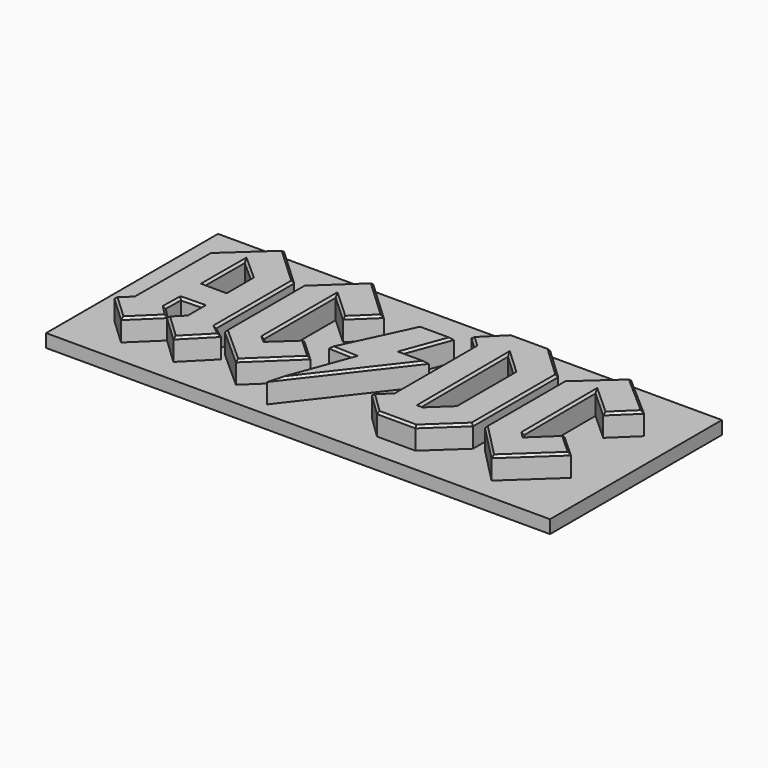
from build123d import *

# Parameters (mm, degrees)
F1_DEPTH  = 5
F2_SIZE   = 0.5
F3_SIZE   = 0.5
F4_SIZE   = 0.5
F4_2_SIZE = 0.5
F4_3_SIZE = 0.5
F5_W      = 115.1058450341
F5_H      = 49.0769091994
F6_DEPTH  = 3


with BuildPart() as f1:
    # F0 (on Top) → F1 (new body)
    with BuildSketch(Plane.XY):
        Polygon((-37.42608428, 22.5619599223), (-47.2409762442, 13.5421995074), (-47.3403669894, -8.0754114315), (-49.8249195516, -10.4061011225), (-43.6656922102, -16.1837078631), (-37.7921573818, -10.4982452467), (-37.8895290196, -10.3818755597), (-37.7921573818, -10.2489022538), (-40.1794202626, -7.7844434418), (-40.0907732546, -3.5736807622), (-35.3744700551, -3.4561404003), (-35.3744700551, -7.9084793106), (-37.7229635754, -10.2751602206), (-37.6319399832, -10.4127417504), (-37.7099849284, -10.4948300868), (-31.6901914775, -16.2181090564), (-25.7026143372, -10.1542454213), (-28.4063257277, -8.0754114315), (-28.4063257277, 14.1633953899), align=None)
        Polygon((-40.2612486885, 3.4539912895), (-40.2090400457, 14.8094361648), (-35.3391999321, 10.4859145358), (-35.3391999321, 3.43136131), align=None, mode=Mode.SUBTRACT)
    extrude(amount=F1_DEPTH)

    # F3 (call 1 of 3: OpenCascade refuses the feature's edges together)
    f3_edges = [f1.edges().sort_by_distance(p)[0] for p in [
        (-42.33353, 18.05208, 5),
        (-32.916205, 18.362678, 5),
        (-28.406326, 3.043992, 5),
        (-27.05447, -9.114828, 5),
        (-28.696403, -13.186177, 5),
        (-34.700088, -13.35647, 5),
        (-47.290672, 2.733394, 5),
        (-48.582643, -9.240756, 5),
        (-46.745306, -13.294904, 5),
        (-40.728925, -13.340977, 5),
    ]]
    chamfer(f3_edges, length=F3_SIZE)

    # F3#2 (call 2 of 3)
    f3_2_edges = [f1.edges().sort_by_distance(p)[0] for p in [
        (-38.985789, -9.016673, 5),
        (-40.135097, -5.679062, 5),
        (-37.732622, -3.514911, 5),
        (-35.37447, -5.68231, 5),
        (-36.548717, -9.09182, 5),
    ]]
    chamfer(f3_2_edges, length=F3_SIZE)

    # F3#3 (call 3 of 3)
    f3_3_edges = [f1.edges().sort_by_distance(p)[0] for p in [
        (-35.3392, 6.958638, 5),
        (-37.77412, 12.647675, 5),
        (-40.235144, 9.131714, 5),
        (-37.800224, 3.442676, 5),
    ]]
    chamfer(f3_3_edges, length=F3_SIZE)


with BuildPart() as f1b:
    # F0 (on Top) → F1, piece 2 (new body)
    with BuildSketch(Plane.XY):
        Polygon((-19.161703065, 14.4670484588), (-12.8708295524, 8.6571360007), (-7.5798099861, 13.7121323496), (-17.1608086675, 22.685950622), (-26.3091549277, 14.1149796546), (-26.3091549277, -8.2478513941), (-17.4777526408, -16.1375980824), (-7.8215589747, -6.9329035468), (-12.9021368921, -2.2783528548), (-17.9871674627, -6.9614294916), (-19.161703065, -5.9346454218), align=None)
    extrude(amount=F1_DEPTH)

    # F2
    f2_edges = [f1b.edges().sort_by_distance(p)[0] for p in [
        (-21.734982, 18.400465, 5),
        (-12.370309, 18.199041, 5),
        (-10.22532, 11.184634, 5),
        (-16.016266, 11.562092, 5),
        (-19.161703, 4.266202, 5),
        (-18.574435, -6.448037, 5),
        (-15.444652, -4.619891, 5),
        (-10.361848, -4.605628, 5),
        (-12.649656, -11.535251, 5),
        (-21.893454, -12.192725, 5),
        (-26.309155, 2.933564, 5),
    ]]
    chamfer(f2_edges, length=F2_SIZE)


with BuildPart() as f1c:
    # F0 (on Top) → F1, piece 3 (new body)
    with BuildSketch(Plane.XY):
        Polygon((3.7653737236, 4.9088806845), (7.4746427126, 14.8920789361), (-0.1533375762, 14.8920789361), (-7.8814821318, -1.59857166), (-2.1826399025, -1.8131509423), (-8.3971247077, -18.5731500387), (9.7478628159, 4.9088806845), align=None)
    extrude(amount=F1_DEPTH)

    # F4
    f4_edges = [f1c.edges().sort_by_distance(p)[0] for p in [
        (-4.01741, 6.646754, 5),
        (6.756618, 4.908881, 5),
        (0.675369, -6.832135, 5),
        (-5.289882, -10.19315, 5),
        (-5.032061, -1.705861, 5),
        (5.620008, 9.90048, 5),
        (3.660653, 14.892079, 5),
    ]]
    chamfer(f4_edges, length=F4_SIZE)


with BuildPart() as f1d:
    # F0 (on Top) → F1, piece 4 (new body)
    with BuildSketch(Plane.XY):
        Polygon((23.4530437738, 22.4253199995), (14.6175920963, 22.4253199995), (9.5286192372, 17.3721760511), (12.2141102329, 14.837116003), (12.2141102329, -8.37269146), (9.409093298, -10.9280645847), (14.6665340289, -16.0265769809), (23.4530437738, -16.0265769809), (30.9827085584, -8.9936666191), (30.9827085584, 15.3131149709), align=None)
        Polygon((19.1591493785, -9.66059044), (19.0391037613, 15.8954672515), (23.9688307047, 11.2960087135), (23.9688307047, -5.2332254127), (19.2519631237, -9.66059044), align=None, mode=Mode.SUBTRACT)
    extrude(amount=F1_DEPTH)

    # F4#2
    f4_2_edges = [f1d.edges().sort_by_distance(p)[0] for p in [
        (12.21411, 3.232212, 5),
        (10.871365, 16.104646, 5),
        (12.073106, 19.898748, 5),
        (19.035318, 22.42532, 0),
        (27.217876, 18.869217, 5),
        (30.982709, 3.159724, 5),
        (27.217876, -12.510122, 5),
        (19.059789, -16.026577, 5),
        (12.037814, -13.477321, 5),
        (19.099127, 3.117438, 5),
        (21.610397, -7.446908, 5),
        (23.968831, 3.031392, 5),
        (21.503967, 13.595738, 5),
        (19.035318, 22.42532, 5),
        (10.811602, -9.650378, 5),
    ]]
    chamfer(f4_2_edges, length=F4_2_SIZE)


with BuildPart() as f1e:
    # F0 (on Top) → F1, piece 5 (new body)
    with BuildSketch(Plane.XY):
        Polygon((46.4923679829, 8.7755601853), (51.76525563, 13.841053471), (41.9640727341, 22.4253199995), (33.0546163023, 14.3528934568), (33.0546163023, -8.1906411797), (41.2580221891, -16.5618509054), (51.6416355968, -6.891772151), (46.3153868914, -2.0229439251), (41.1742553115, -6.891772151), (40.203319401, -5.8665338308), (40.1073985943, 14.55368414), align=None)
    extrude(amount=F1_DEPTH)

    # F4#3
    f4_3_edges = [f1e.edges().sort_by_distance(p)[0] for p in [
        (33.054616, 3.081126, 5),
        (37.509345, 18.389107, 5),
        (46.864664, 18.133187, 5),
        (49.128812, 11.308307, 5),
        (43.299883, 11.664622, 5),
        (40.155359, 4.343575, 5),
        (40.688787, -6.379153, 5),
        (43.744821, -4.457358, 5),
        (48.978511, -4.457358, 5),
        (46.449829, -11.726812, 5),
        (37.156319, -12.376246, 5),
    ]]
    chamfer(f4_3_edges, length=F4_3_SIZE)


with BuildPart() as f6:
    # F5 (on Top) → F6 (new body)
    with BuildSketch(Plane.XY):
        with Locations((1.1639595032, 2.8500640765)):
            Rectangle(F5_W, F5_H)
    extrude(amount=-F6_DEPTH)


solid = Compound([f1.part, f1b.part, f1c.part, f1d.part, f1e.part, f6.part])
